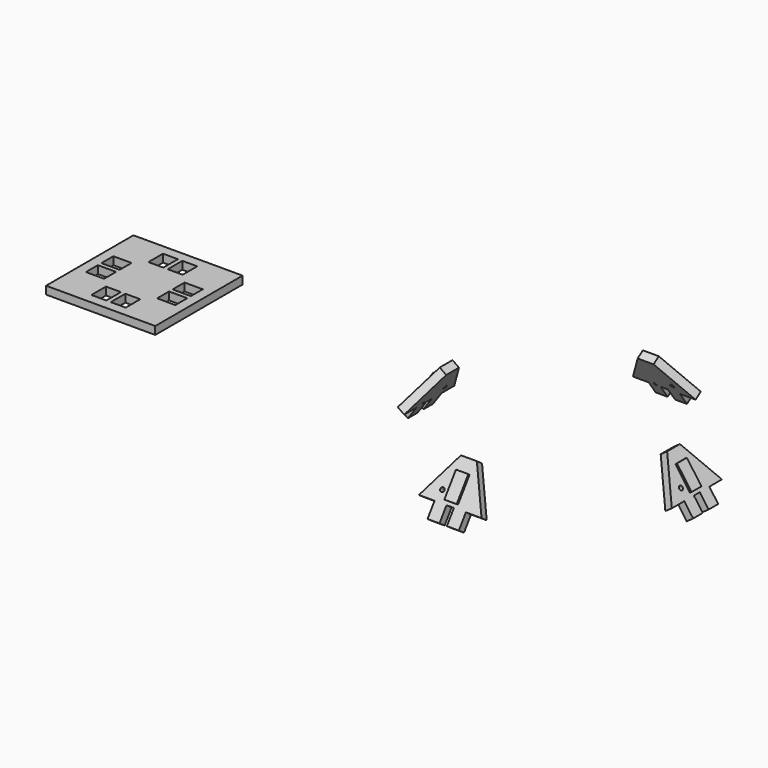
from build123d import *

# Parameters (mm, degrees)
F2_R      = 0.417678
F2_W      = 0.5
F2_H      = 0.5
F3_DEPTH  = 1.6
F4_DEPTH  = 0.6
F8_DEPTH  = 0.4
F9_COUNT  = 4
F10_DEPTH = 1.6


with BuildPart() as f3:
    # F2 (on face) → F3 (new body)
    with BuildSketch(Plane(origin=(0, 0, 0), x_dir=(0, -1, 0), z_dir=(-0.816541, 0, 0.577288))):
        Polygon((3.175, -2.553741), (6.349975, -2.553741), (1.616583, 5.644769), (-1.616583, 5.644769), (-6.35, -2.553741), (-3.175, -2.553741), (-3.175, -5.644744), (-0.750011, -5.644744), (-0.750011, -2.553741), (0.749986, -2.553741), (0.749986, -5.644744), (3.175, -5.644744), align=None)
        with Locations((-2.552141, -0.481787)):
            Circle(F2_R, mode=Mode.SUBTRACT)
        with Locations((1.712493, -2.303741)):
            Rectangle(F2_W, F2_H, mode=Mode.SUBTRACT)
        with Locations((1.712493, -2.303741)):
            Rectangle(F2_W, F2_H)
    extrude(amount=F3_DEPTH)

    # F2 (on face) → F4 (cut)
    with BuildSketch(Plane(origin=(0, 0, 0), x_dir=(0, -1, 0), z_dir=(-0.816541, 0, 0.577288))):
        with Locations((1.712493, -2.303741)):
            Rectangle(F2_W, F2_H)
    extrude(amount=F4_DEPTH, mode=Mode.SUBTRACT)

    # F7 (on face) → F8 (join)
    with BuildSketch(Plane(origin=(-1.306465, 0, 0.92366), x_dir=(0, -1, 0), z_dir=(-0.816541, 0, 0.577288))):
        Polygon((-1.250013, -1.855241), (-1.3e-05, -1.855241), (1.249987, -1.855241), (1.249987, 3.244759), (-1.250013, 3.244759), align=None)
    extrude(amount=F8_DEPTH)


with BuildPart() as f9_1:
    # F9: instance of F3
    add(f3.part.rotate(Axis((25, 0, 13.070024), (0, 0, 1)), 1 * 360 / F9_COUNT))


with BuildPart() as f9_2:
    # F9: instance of F3
    add(f3.part.rotate(Axis((25, 0, 13.070024), (0, 0, 1)), 2 * 360 / F9_COUNT))


with BuildPart() as f9_3:
    # F9: instance of F3
    add(f3.part.rotate(Axis((25, 0, 13.070024), (0, 0, 1)), 3 * 360 / F9_COUNT))


with BuildPart() as f10:
    # F0 (on Top) → F10 (new body)
    with BuildSketch(Plane.XY):
        Polygon((-48.734014, -10.365968), (-48.734014, 0.7), (-48.734014, 11.765992), (-59.800007, 11.765992), (-70.865974, 11.765992), (-70.865974, 0.7), (-70.865974, -10.365968), (-59.800007, -10.365968), align=None)
        Polygon((-60.249993, -4.674971), (-60.249993, -8.365972), (-63.274981, -8.365972), (-63.274981, -8.065972), (-63.274981, -4.97497), (-63.274981, -4.674971), align=None, mode=Mode.SUBTRACT)
        Polygon((-56.325007, -8.365972), (-59.349995, -8.365972), (-59.349995, -4.674971), (-56.325007, -4.674971), (-56.325007, -4.97497), (-56.325007, -8.065972), align=None, mode=Mode.SUBTRACT)
        Polygon((-68.865978, -2.774974), (-68.865978, 0.250013), (-65.174977, 0.250013), (-65.174977, -2.774974), (-65.474976, -2.774974), (-68.565978, -2.774974), align=None, mode=Mode.SUBTRACT)
        Polygon((-54.425011, 0.250013), (-50.73401, 0.250013), (-50.73401, -2.774974), (-51.034009, -2.774974), (-54.125012, -2.774974), (-54.425011, -2.774974), align=None, mode=Mode.SUBTRACT)
        Polygon((-65.174977, 1.150011), (-68.865978, 1.150011), (-68.865978, 4.174999), (-68.565978, 4.174999), (-65.474976, 4.174999), (-65.174977, 4.174999), align=None, mode=Mode.SUBTRACT)
        Polygon((-50.73401, 4.174999), (-50.73401, 1.150011), (-54.425011, 1.150011), (-54.425011, 4.174999), (-54.125012, 4.174999), (-51.034009, 4.174999), align=None, mode=Mode.SUBTRACT)
        Polygon((-63.274981, 9.765996), (-60.249993, 9.765996), (-60.249993, 6.074995), (-63.274981, 6.074995), (-63.274981, 6.374995), (-63.274981, 9.465997), align=None, mode=Mode.SUBTRACT)
        Polygon((-59.349995, 6.074995), (-59.349995, 9.765996), (-56.325007, 9.765996), (-56.325007, 9.465997), (-56.325007, 6.374995), (-56.325007, 6.074995), align=None, mode=Mode.SUBTRACT)
    extrude(amount=-F10_DEPTH)


solid = Compound([f3.part, f9_1.part, f9_2.part, f9_3.part, f10.part])
